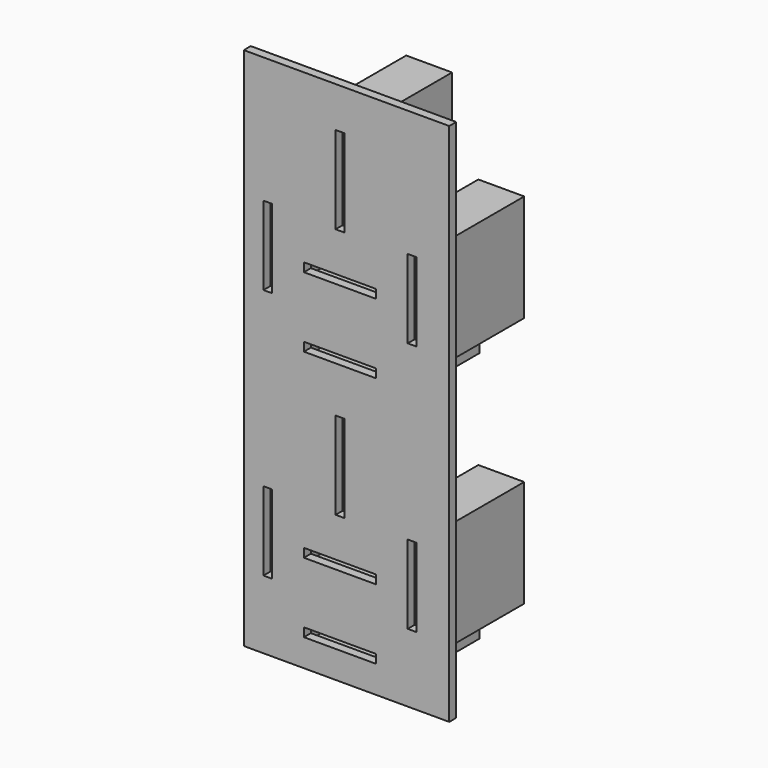
from build123d import *

# Parameters (mm, degrees)
F0_W      = 25.4
F0_H      = 30.48
F1_DEPTH  = 1.016
F2_W      = 1.016
F2_H      = 10.16
F2_H_2    = 9.144
F2_W_2    = 8.382
F2_H_3    = 1.016
F3_DEPTH  = 1.017
F4_W      = 25.4
F4_H      = 30.48
F5_DEPTH  = 1.016
F6_W      = 1.016
F6_H      = 9.144
F6_W_2    = 8.382
F6_H_2    = 1.016
F6_H_3    = 10.16
F7_DEPTH  = 1.017
F8_W      = 5.334
F8_H      = 13.462
F8_W_2    = 3.302
F8_H_2    = 11.43
F8_H_3    = 10.414
F8_W_3    = 11.43
F8_H_4    = 5.334
F8_W_4    = 9.652
F8_H_5    = 3.302
F8_W_5    = 0.127
F8_H_6    = 0.0508
F9_DEPTH  = 12.954
F10_W     = 1.524
F10_H     = 60.96
F11_DEPTH = 25.4


with BuildPart() as f1:
    # F0 (on Front) → F1 (new body)
    with BuildSketch(Plane.XZ):
        with Locations((9.3459782816, -10.94705052)):
            Rectangle(F0_W, F0_H)
    extrude(amount=F1_DEPTH)

    # F2 (on Front) → F3 (cut, through all)
    with BuildSketch(Plane.XZ):
        with Locations((9.3459782816, -5.48605052)):
            Rectangle(F2_W, F2_H)
        with Locations((0.9639782816, -14.93485052)):
            Rectangle(F2_W, F2_H_2)
        with Locations((17.7279782816, -14.93485052)):
            Rectangle(F2_W, F2_H_2)
        with Locations((9.3459782816, -15.64605052)):
            Rectangle(F2_W_2, F2_H_3)
        with Locations((9.3459782816, -23.77405052)):
            Rectangle(F2_W_2, F2_H_3)
    extrude(amount=F3_DEPTH, mode=Mode.SUBTRACT)

    # F4 (on face) → F5 (join)
    with BuildSketch(Plane.XZ.offset(1.016)):
        with Locations((9.3459782816, -41.42705052)):
            Rectangle(F4_W, F4_H)
    extrude(amount=-F5_DEPTH)

    # F6 (on face) → F7 (cut, through all)
    with BuildSketch(Plane.XZ.offset(1.016)):
        with Locations((0.9639782816, -14.93485052)):
            Rectangle(F6_W, F6_H)
        with Locations((9.3459782816, -15.64605052)):
            Rectangle(F6_W_2, F6_H_2)
        with Locations((9.3459782816, -5.48605052)):
            Rectangle(F6_W, F6_H_3)
        with Locations((17.7279782816, -14.93485052)):
            Rectangle(F6_W, F6_H)
        with Locations((9.3459782816, -23.77405052)):
            Rectangle(F6_W_2, F6_H_2)
        with Locations((9.3459782816, -34.69605052)):
            Rectangle(F6_W, F6_H_3)
        with Locations((17.7279782816, -44.14485052)):
            Rectangle(F6_W, F6_H)
        with Locations((9.3459782816, -44.85605052)):
            Rectangle(F6_W_2, F6_H_2)
        with Locations((9.3459782816, -52.98405052)):
            Rectangle(F6_W_2, F6_H_2)
        with Locations((0.9639782816, -44.14485052)):
            Rectangle(F6_W, F6_H)
    extrude(amount=-F7_DEPTH, mode=Mode.SUBTRACT)

    # F8 (on face) → F9 (join)
    with BuildSketch(Plane.XZ.offset(1.016)):
        with Locations((9.3459782816, -5.48605052)):
            Rectangle(F8_W, F8_H)
        with Locations((9.3459782816, -5.48605052)):
            Rectangle(F8_W_2, F8_H_2, mode=Mode.SUBTRACT)
        Polygon((3.6309782816, -12.97905052), (3.6309782816, -8.71185052), (-1.7030217184, -8.71185052), (-1.7030217184, -21.15785052), (3.5039782816, -21.15785052), (3.5039782816, -21.10705052), (3.6309782816, -21.10705052), (3.6309782816, -18.31305052), (3.5039782816, -18.31305052), (3.5039782816, -12.97905052), align=None)
        with Locations((0.9639782816, -14.93485052)):
            Rectangle(F8_W_2, F8_H_3, mode=Mode.SUBTRACT)
        with Locations((9.3459782816, -15.64605052)):
            Rectangle(F8_W_3, F8_H_4)
        with Locations((9.3459782816, -15.64605052)):
            Rectangle(F8_W_4, F8_H_5, mode=Mode.SUBTRACT)
        with Locations((3.5674782816, -15.64605052)):
            Rectangle(F8_W_5, F8_H_4)
        with Locations((15.1244782816, -15.64605052)):
            Rectangle(F8_W_5, F8_H_4)
        Polygon((15.0609782816, -8.71185052), (15.0609782816, -12.97905052), (15.1879782816, -12.97905052), (15.1879782816, -18.31305052), (15.0609782816, -18.31305052), (15.0609782816, -21.10705052), (15.1879782816, -21.10705052), (15.1879782816, -21.15785052), (20.3949782816, -21.15785052), (20.3949782816, -8.71185052), align=None)
        with Locations((17.7279782816, -14.93485052)):
            Rectangle(F8_W_2, F8_H_3, mode=Mode.SUBTRACT)
        with Locations((3.5674782816, -21.13245052)):
            Rectangle(F8_W_5, F8_H_6)
        Polygon((3.6309782816, -21.15785052), (3.5039782816, -21.15785052), (3.5039782816, -26.44105052), (15.1879782816, -26.44105052), (15.1879782816, -21.15785052), (15.0609782816, -21.15785052), (15.0609782816, -21.10705052), (3.6309782816, -21.10705052), align=None)
        with Locations((9.3459782816, -23.77405052)):
            Rectangle(F8_W_4, F8_H_5, mode=Mode.SUBTRACT)
        with Locations((15.1244782816, -21.13245052)):
            Rectangle(F8_W_5, F8_H_6)
        with Locations((9.3459782816, -34.69605052)):
            Rectangle(F8_W, F8_H)
        with Locations((9.3459782816, -34.69605052)):
            Rectangle(F8_W_2, F8_H_2, mode=Mode.SUBTRACT)
        Polygon((20.3949782816, -37.92185052), (15.0609782816, -37.92185052), (15.0609782816, -42.18905052), (15.1879782816, -42.18905052), (15.1879782816, -47.52305052), (15.0609782816, -47.52305052), (15.0609782816, -50.31705052), (15.1879782816, -50.31705052), (15.1879782816, -50.36785052), (20.3949782816, -50.36785052), align=None)
        with Locations((17.7279782816, -44.14485052)):
            Rectangle(F8_W_2, F8_H_3, mode=Mode.SUBTRACT)
        with Locations((15.1244782816, -44.85605052)):
            Rectangle(F8_W_5, F8_H_4)
        with Locations((9.3459782816, -44.85605052)):
            Rectangle(F8_W_3, F8_H_4)
        with Locations((9.3459782816, -44.85605052)):
            Rectangle(F8_W_4, F8_H_5, mode=Mode.SUBTRACT)
        with Locations((3.5674782816, -44.85605052)):
            Rectangle(F8_W_5, F8_H_4)
        Polygon((3.5039782816, -42.18905052), (3.6309782816, -42.18905052), (3.6309782816, -37.92185052), (-1.7030217184, -37.92185052), (-1.7030217184, -50.36785052), (3.5039782816, -50.36785052), (3.5039782816, -50.31705052), (3.6309782816, -50.31705052), (3.6309782816, -47.52305052), (3.5039782816, -47.52305052), align=None)
        with Locations((0.9639782816, -44.14485052)):
            Rectangle(F8_W_2, F8_H_3, mode=Mode.SUBTRACT)
        with Locations((15.1244782816, -50.34245052)):
            Rectangle(F8_W_5, F8_H_6)
        Polygon((15.0609782816, -50.36785052), (15.0609782816, -50.31705052), (3.6309782816, -50.31705052), (3.6309782816, -50.36785052), (3.5039782816, -50.36785052), (3.5039782816, -55.65105052), (15.1879782816, -55.65105052), (15.1879782816, -50.36785052), align=None)
        with Locations((9.3459782816, -52.98405052)):
            Rectangle(F8_W_4, F8_H_5, mode=Mode.SUBTRACT)
        with Locations((3.5674782816, -50.34245052)):
            Rectangle(F8_W_5, F8_H_6)
    extrude(amount=-F9_DEPTH)

    # F10 (on face) → F11 (cut)
    with BuildSketch(Plane.XZ.offset(1.016)):
        with Locations((-2.5920217184, -26.18705052)):
            Rectangle(F10_W, F10_H)
    extrude(amount=-F11_DEPTH, mode=Mode.SUBTRACT)


solid = f1.part
